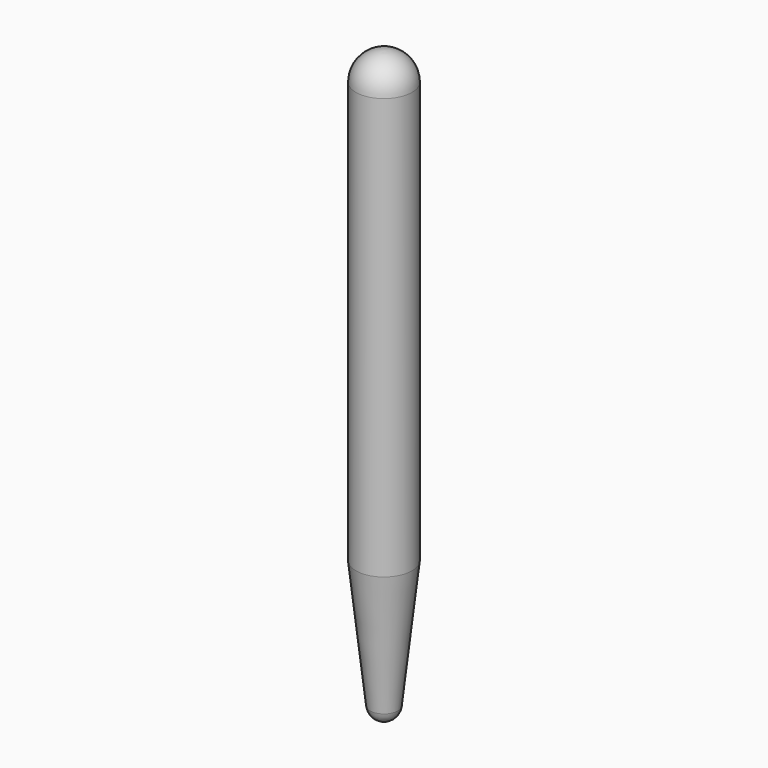
from build123d import *

# Parameters (mm, degrees)
F0_W = 40
F0_H = 600


with BuildPart() as f1:
    # F0 (on Front) → F1 (revolve)
    with BuildSketch(Plane.XZ):
        with Locations((-20, 300)):
            Rectangle(F0_W, F0_H)
        with BuildLine():
            ThreePointArc((0, 640), (-28.284271, 628.284271), (-40, 600))
            Line((-40, 600), (0, 600))
            Line((0, 600), (0, 640))
        make_face()
        with BuildLine():
            Line((0, 0), (-40, 0))
            Line((-40, 0), (-19.879144, -182.195365))
            ThreePointArc((-19.879144, -182.195365), (-13.343401, -194.898109), (0, -200))
            Line((0, -200), (0, 0))
        make_face()
    revolve(axis=Axis((0, 0, 220), (0, 0, 1)))


solid = f1.part
